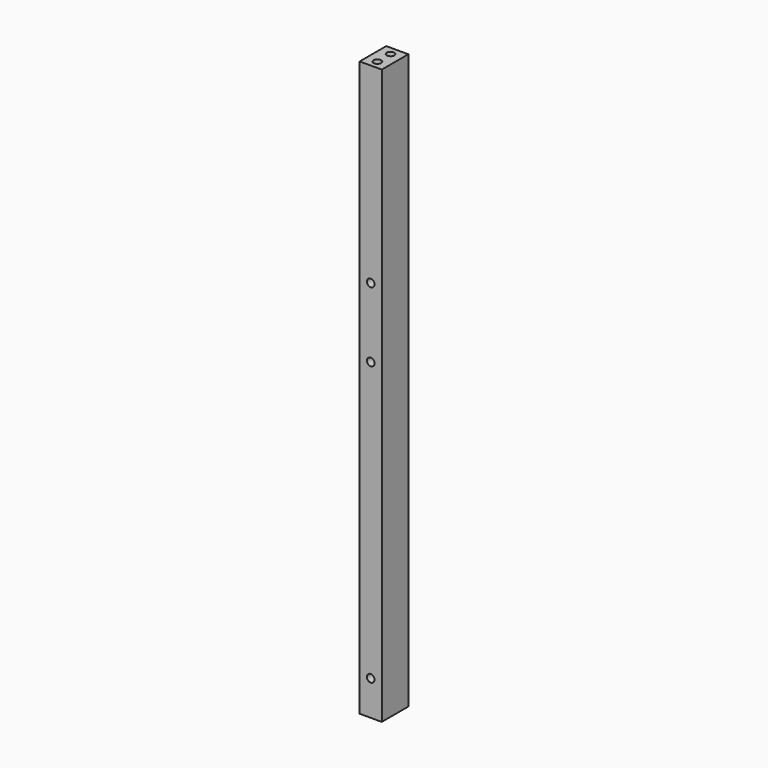
from build123d import *

# Parameters (mm, degrees)
F0_W           = 12.7
F0_H           = 330
F1_DEPTH       = 9.55
F3_D           = 4.4
F3_DEPTH       = 12
F3_TIP         = 1.3218933619
F6_D           = 4.4
F6_DEPTH       = 12
F6_TIP         = 1.3218933619
F6_ON_F4_D     = 4.4
F6_ON_F4_DEPTH = 12
F6_ON_F4_TIP   = 1.3218933619


with BuildPart() as f1:
    # F0 (on Front) → F1 (new body, symmetric)
    with BuildSketch(Plane.XZ):
        Rectangle(F0_W, F0_H)
    extrude(amount=F1_DEPTH, both=True)

    # F3
    with Locations(Plane.XZ.offset(9.55)):
        with Locations((0, 15), (0, -145), (0, 55), (0, 55)):
            Hole(F3_D / 2, depth=F3_DEPTH)
            with Locations((0, 0, -(F3_DEPTH + F3_TIP / 2))):  # 118° drill point
                Cone(0, F3_D / 2, F3_TIP, mode=Mode.SUBTRACT)

    # F6
    with Locations(Plane.XY.offset(165)):
        with Locations((0, 4.75), (0, -4.75)):
            Hole(F6_D / 2, depth=F6_DEPTH)
            with Locations((0, 0, -(F6_DEPTH + F6_TIP / 2))):  # 118° drill point
                Cone(0, F6_D / 2, F6_TIP, mode=Mode.SUBTRACT)

    # F6 on F4
    with Locations(Plane(origin=(0, 0, -165), x_dir=(1, 0, 0), z_dir=(0, 0, -1))):
        with Locations((0, 4.75), (0, -4.75)):
            Hole(F6_ON_F4_D / 2, depth=F6_ON_F4_DEPTH)
            with Locations((0, 0, -(F6_ON_F4_DEPTH + F6_ON_F4_TIP / 2))):  # 118° drill point
                Cone(0, F6_ON_F4_D / 2, F6_ON_F4_TIP, mode=Mode.SUBTRACT)


solid = f1.part
